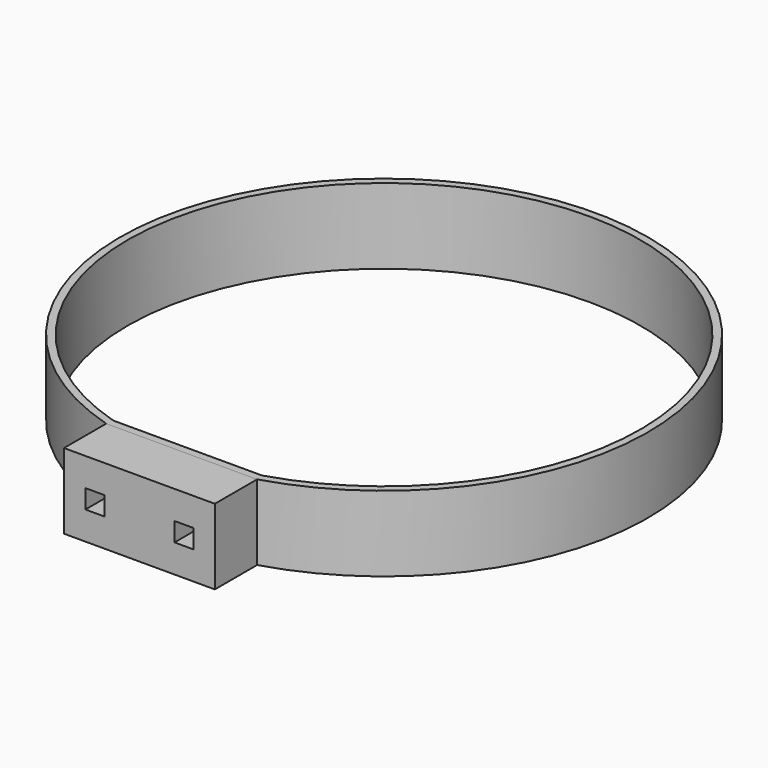
from build123d import *

# Parameters (mm, degrees)
F0_W     = 6.35
F0_H     = 6.35
F1_DEPTH = 5.08
F2_DEPTH = 17.78
F6_DEPTH = 25.4
F7_T     = -2.54


with BuildPart() as f1:
    # F0 (on Front) → F1 (new body)
    with BuildSketch(Plane.XZ):
        with Locations((-14.996996963, 0)):
            Rectangle(F0_W, F0_H)
    extrude(amount=F1_DEPTH)


with BuildPart() as f1b:
    # F0 (on Front) → F1, piece 2 (new body)
    with BuildSketch(Plane.XZ):
        with Locations((14.996996963, 0)):
            Rectangle(F0_W, F0_H)
    extrude(amount=F1_DEPTH)


with BuildPart() as f2:
    # F0 (on Front) → F2 (new body)
    with BuildSketch(Plane.XZ):
        Polygon((-25.4, 12.7), (-25.4, -10.2536968559), (-25.4, -12.7), (25.4, -12.7), (25.4, 12.7), align=None)
        with Locations((-14.996996963, 0)):
            Rectangle(F0_W, F0_H, mode=Mode.SUBTRACT)
        with Locations((14.996996963, 0)):
            Rectangle(F0_W, F0_H, mode=Mode.SUBTRACT)
    extrude(amount=F2_DEPTH)


with BuildPart() as f6:
    # F5 (on offset) → F6 (new body)
    with BuildSketch(Plane.XY.offset(12.7)):
        with BuildLine():
            ThreePointArc((25.4, 0), (0, 174.0941899427), (-25.4, 0))
            Line((-25.4, 0), (25.4, 0))
        make_face()
    extrude(amount=-F6_DEPTH)

    # F7
    f7_openings = [f6.faces().sort_by_distance(p)[0] for p in [
        (0, 85.636439, 12.7),
        (0, 85.636439, -12.7),
    ]]
    offset(amount=F7_T, openings=f7_openings)


solid = Compound([f1.part, f1b.part, f2.part, f6.part])
